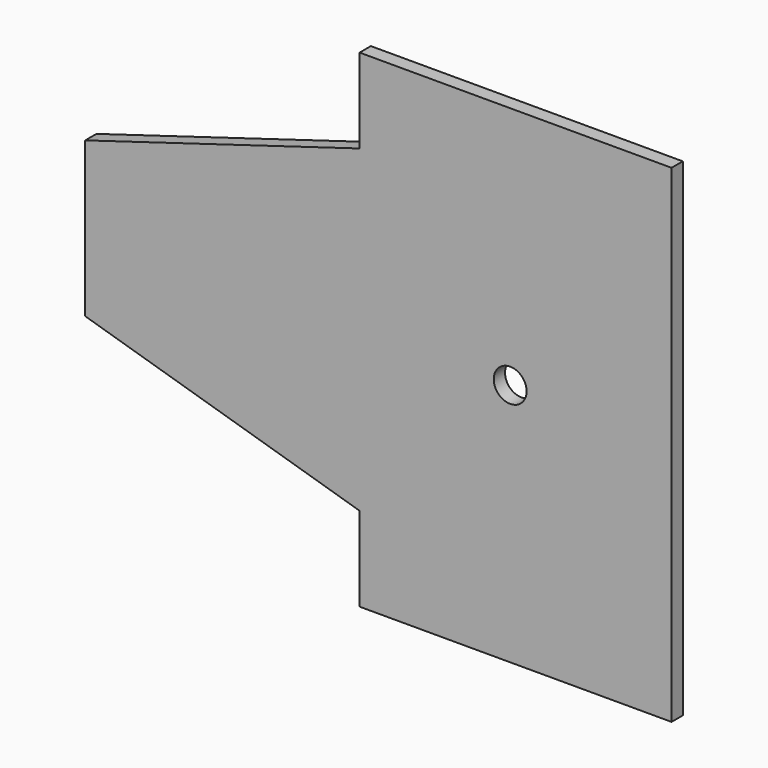
from build123d import *

# Parameters (mm, degrees)
F1_DEPTH = 3
F2_D     = 7
F2_DEPTH = 10
F2_TIP   = 2.1030121666


with BuildPart() as f1:
    # F0 (on Front) → F1 (new body)
    with BuildSketch(Plane.XZ):
        Polygon((3.132358849, 45.6571279541), (3.132358849, 79.6571279541), (-55.367641151, 62.1571279541), (-55.367641151, 45.6571279541), align=None)
        Polygon((69.632358849, 97.6571279541), (3.132358849, 97.6571279541), (3.132358849, 79.6571279541), (3.132358849, 45.6571279541), (35.232358849, 45.6571279541), (69.632358849, 45.6571279541), align=None)
        Polygon((69.632358849, -6.3428720459), (69.632358849, 45.6571279541), (35.232358849, 45.6571279541), (3.132358849, 45.6571279541), (3.132358849, 11.6571279541), (3.132358849, -6.3428720459), align=None)
        Polygon((3.132358849, 11.6571279541), (3.132358849, 45.6571279541), (-55.367641151, 45.6571279541), (-55.367641151, 29.1571279541), align=None)
    extrude(amount=F1_DEPTH)

    # F2
    with Locations(Plane(origin=(0, 0, 0), x_dir=(1, 0, 0), z_dir=(0, 1, 0))):
        with Locations((35.232358849, -45.6571279541)):
            Hole(F2_D / 2, depth=F2_DEPTH)
            with Locations((0, 0, -(F2_DEPTH + F2_TIP / 2))):  # 118° drill point
                Cone(0, F2_D / 2, F2_TIP, mode=Mode.SUBTRACT)


solid = f1.part
